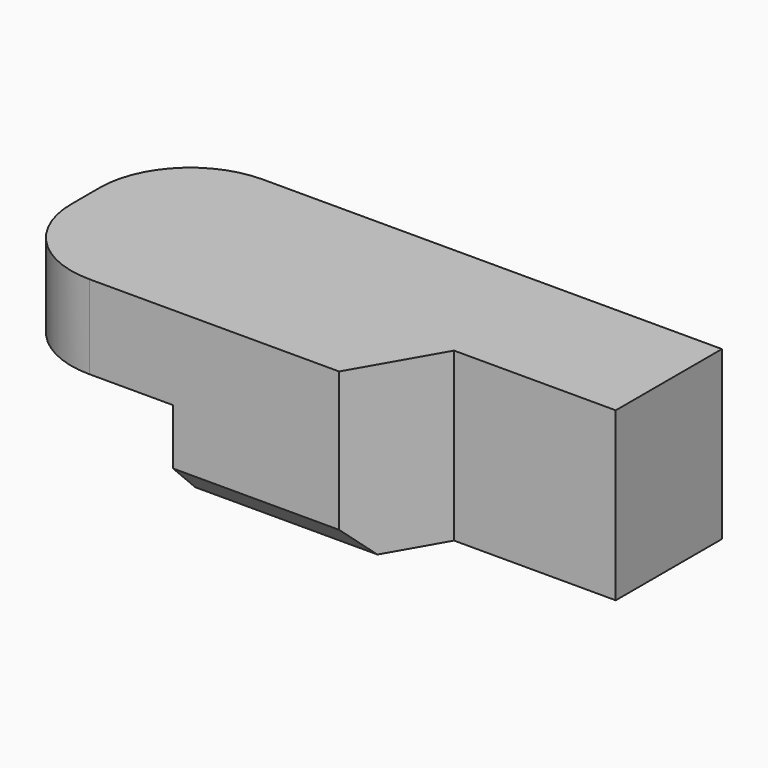
from build123d import *

# Parameters (mm, degrees)
F0_W     = 14.5
F0_H     = 15
F1_DEPTH = 19.4
F2_R     = 8.1
F3_R     = 8.1
F4_SIZE  = 2.5
F6_DEPTH = 15.001


with BuildPart() as f1:
    # F0 (on Front) → F1 (new body)
    with BuildSketch(Plane.XZ):
        with Locations((7.25, 17.853258)):
            Rectangle(F0_W, F0_H)
        Polygon((0, 25.353258), (-34.8, 25.353258), (-34.8, 17.853258), (-19.2, 17.853258), (-19.2, 13.122616), (-19.2, 10.353258), (0, 10.353258), align=None)
    extrude(amount=F1_DEPTH)

    # F2
    f2_edges = [f1.edges().sort_by_distance(p)[0] for p in [
        (-34.8, 0, 21.603258),
    ]]
    fillet(f2_edges, radius=F2_R)

    # F3
    f3_edges = [f1.edges().sort_by_distance(p)[0] for p in [
        (-34.8, -19.4, 21.603258),
    ]]
    fillet(f3_edges, radius=F3_R)

    # F4
    f4_edges = [f1.edges().sort_by_distance(p)[0] for p in [
        (-2.35, -19.4, 10.353258),
    ]]
    chamfer(f4_edges, length=F4_SIZE)

    # F5 (on face) → F6 (cut, through all)
    with BuildSketch(Plane(origin=(0, 0, 10.353258), x_dir=(1, 0, 0), z_dir=(0, 0, -1))):
        Polygon((0, 11.9), (14.5, 11.9), (14.5, 19.4), (-4.3, 19.4), align=None)
    extrude(amount=-F6_DEPTH, mode=Mode.SUBTRACT)


solid = f1.part
